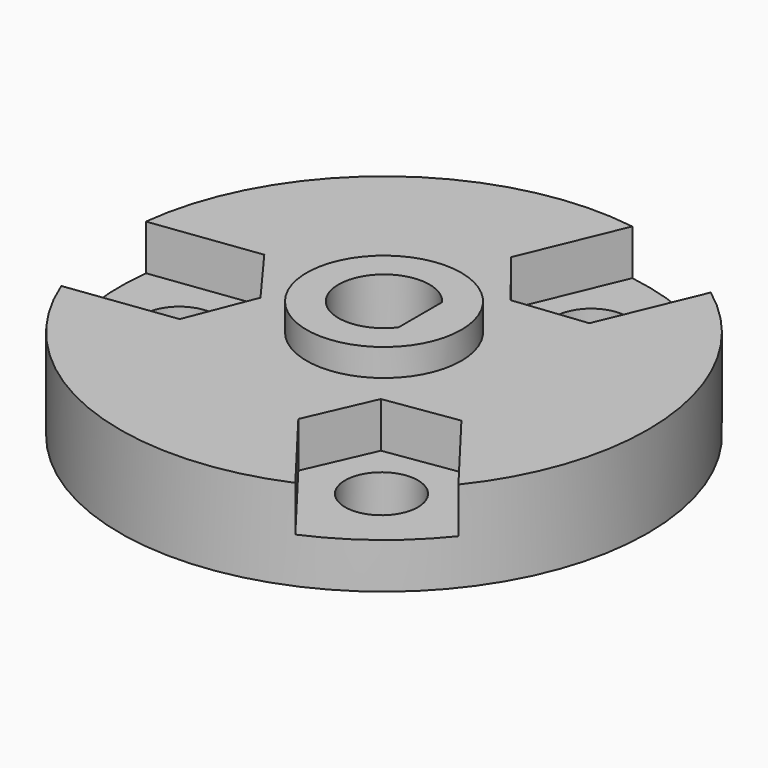
from build123d import *

# Parameters (mm, degrees)
SKETCH039_R           = 14.5
PAD016_DEPTH          = 5
POCKET022_DEPTH       = 2.5
SKETCH041_R           = 2
POCKET023_DEPTH       = 87.6327130405
POLARPATTERN001_COUNT = 3
SKETCH042_R           = 4.25
PAD017_DEPTH          = 1.5
POCKET024_DEPTH       = 5.001
POCKET024_DEPTH_BACK  = 1.501


with BuildPart() as part:
    # Sketch039 → Pad016 (new body)
    with BuildSketch(Plane.XY.offset(55.1)):
        Circle(SKETCH039_R)
    extrude(amount=PAD016_DEPTH)

    # Sketch040 → Pocket022 (cut)
    with BuildSketch(Plane.XY.offset(60.1)):
        with BuildLine():
            Line((-14.4052301376, 1.6550965782), (-8.5148861812, 2.4215481911))
            Line((-8.5148861812, 2.4215481911), (-6.1481704596, -0.8))
            Line((-6.1481704596, -0.8), (-7.6116603747, -4.5199345858))
            Line((-7.6116603747, -4.5199345858), (-13.5020043311, -5.2863861987))
            ThreePointArc((-14.4052301376, 1.6550965782), (-14.3787857522, -1.8709677419), (-13.5020043311, -5.2863861987))
        make_face()
    pocket022 = extrude(amount=-POCKET022_DEPTH, mode=Mode.SUBTRACT)

    # Sketch041 → Pocket023 (cut, through all)
    with BuildSketch(Plane.XY.offset(55.1)):
        with Locations((-10.0992623493, -1.43)):
            Circle(SKETCH041_R)
    pocket023 = extrude(amount=POCKET023_DEPTH, mode=Mode.SUBTRACT)

    # PolarPattern001: Pocket023, Pocket022 ×3 about axis
    polarpattern001_axis = Axis((0, 0, 55.1), (0, 0, 1))
    for i in range(1, POLARPATTERN001_COUNT):
        add(pocket023.rotate(polarpattern001_axis, i * 360 / POLARPATTERN001_COUNT), mode=Mode.SUBTRACT)
        add(pocket022.rotate(polarpattern001_axis, i * 360 / POLARPATTERN001_COUNT), mode=Mode.SUBTRACT)

    # Sketch042 → Pad017 (join)
    with BuildSketch(Plane.XY.offset(60.1)):
        Circle(SKETCH042_R)
    extrude(amount=PAD017_DEPTH)

    # Sketch043 → Pocket024 (cut, two sides)
    with BuildSketch(Plane.XY.offset(60.1)) as pocket024_sk:
        with BuildLine():
            Line((2, 1.5), (2, -1.5))
            ThreePointArc((2, 1.5), (-2.5, 0), (2, -1.5))
        make_face()
    extrude(amount=-POCKET024_DEPTH, mode=Mode.SUBTRACT)
    extrude(pocket024_sk.sketch, amount=POCKET024_DEPTH_BACK, mode=Mode.SUBTRACT)


solid = part.part
